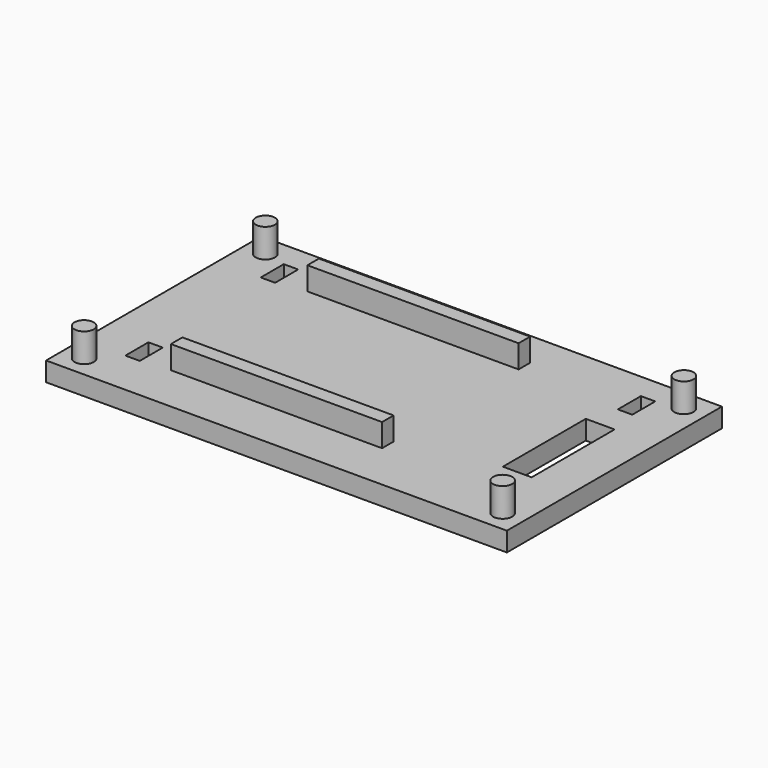
from build123d import *

# Parameters (mm, degrees)
SKETCH_W      = 48
SKETCH_H      = 28
PAD_DEPTH     = 2
SKETCH001_R   = 1
PAD001_DEPTH  = 3
SKETCH003_W   = 1.5
SKETCH003_H   = 3
SKETCH003_W_2 = 3
SKETCH003_H_2 = 10.8
POCKET_DEPTH  = 5.001
SKETCH004_W   = 22
SKETCH004_H   = 1.5
PAD002_DEPTH  = 2.4


with BuildPart() as part:
    # Sketch → Pad (new body)
    with BuildSketch(Plane.XY):
        with Locations((24, 14)):
            Rectangle(SKETCH_W, SKETCH_H)
    extrude(amount=PAD_DEPTH)

    # Sketch001 → Pad001 (new body)
    with BuildSketch(Plane.XY.offset(2)):
        with Locations((2.2, 2.2)):
            Circle(SKETCH001_R)
        with Locations((2.2, 25.8)):
            Circle(SKETCH001_R)
        with Locations((45.8, 25.8)):
            Circle(SKETCH001_R)
        with Locations((45.8, 2.2)):
            Circle(SKETCH001_R)
    extrude(amount=PAD001_DEPTH)

    # Sketch003 → Pocket (cut, through all)
    with BuildSketch(Plane(origin=(0, 0, 0), x_dir=(1, 0, 0), z_dir=(0, 0, -1))):
        with Locations((5.25, -6.2)):
            Rectangle(SKETCH003_W, SKETCH003_H)
        with Locations((5.25, -23.82386)):
            Rectangle(SKETCH003_W, SKETCH003_H)
        with Locations((42.45, -23.82386)):
            Rectangle(SKETCH003_W, SKETCH003_H)
        with Locations((42.2, -14)):
            Rectangle(SKETCH003_W_2, SKETCH003_H_2)
    extrude(amount=-POCKET_DEPTH, mode=Mode.SUBTRACT)

    # Sketch004 → Pad002 (new body)
    with BuildSketch(Plane.XY.offset(2)):
        with Locations((20, 5.75)):
            Rectangle(SKETCH004_W, SKETCH004_H)
        with Locations((20, 23.526215)):
            Rectangle(SKETCH004_W, SKETCH004_H)
    extrude(amount=PAD002_DEPTH)


solid = part.part
